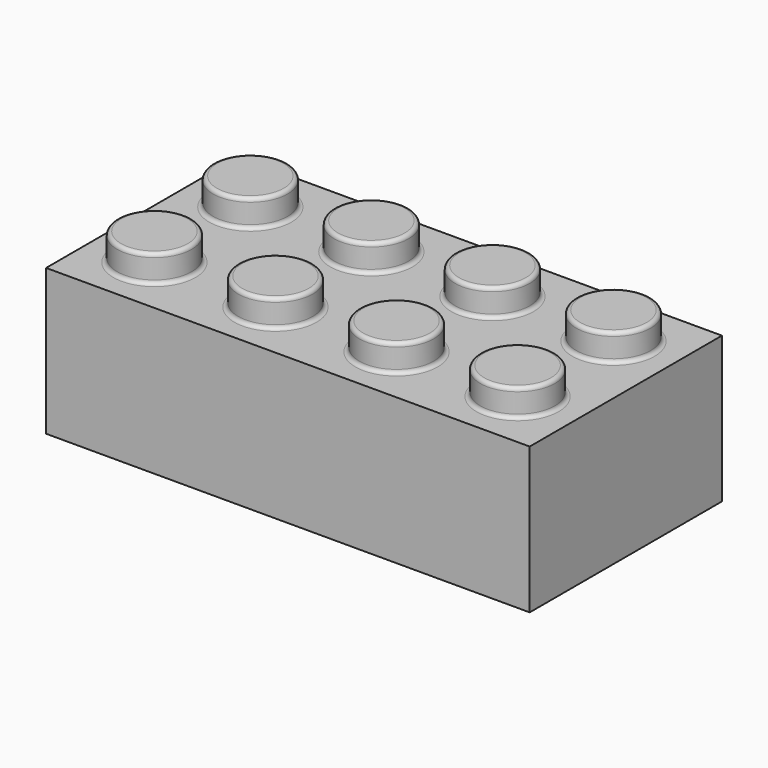
from build123d import *

# Parameters (mm, degrees)
F0_W      = 318
F0_H      = 158
F1_DEPTH  = 96
F2_T      = -10
F3_R      = 32.05
F3_R_2    = 24.5
F4_DEPTH  = 94.742
F5_R      = 24.5
F6_DEPTH  = 18
F7_W      = 6
F7_H      = 2.9972
F7_H_2    = 3
F7_W_2    = 3
F7_H_3    = 6
F8_DEPTH  = 96
F10_START = 6.604
F10_DEPTH = 79.396
F11_R     = 2.54
F12_R     = 13.300546755
F13_DEPTH = 89.662


with BuildPart() as f1:
    # F0 (on Top) → F1 (new body)
    with BuildSketch(Plane.XY):
        Rectangle(F0_W, F0_H)
    extrude(amount=F1_DEPTH)

    # F2
    f2_openings = [f1.faces().sort_by_distance(p)[0] for p in [
        (0, 0, 0),
    ]]
    offset(amount=F2_T, openings=f2_openings)

    # F3 (on Top) → F4 (join)
    with BuildSketch(Plane.XY):
        with Locations((-80, 0)):
            Circle(F3_R)
        with Locations((-80, 0)):
            Circle(F3_R_2, mode=Mode.SUBTRACT)
        Circle(F3_R)
        Circle(F3_R_2, mode=Mode.SUBTRACT)
        with Locations((80, 0)):
            Circle(F3_R)
        with Locations((80, 0)):
            Circle(F3_R_2, mode=Mode.SUBTRACT)
    extrude(amount=F4_DEPTH)

    # F5 (on face) → F6 (join)
    with BuildSketch(Plane.XY.offset(96)):
        with Locations((-119.4124, 39.4124)):
            Circle(F5_R)
        with Locations((-39.81642, 39.4124)):
            Circle(F5_R)
        with Locations((39.77956, 39.4124)):
            Circle(F5_R)
        with Locations((119.37554, 39.4124)):
            Circle(F5_R)
        with Locations((119.37554, -39.4124)):
            Circle(F5_R)
        with Locations((39.77956, -39.4124)):
            Circle(F5_R)
        with Locations((-39.81642, -39.4124)):
            Circle(F5_R)
        with Locations((-119.4124, -39.4124)):
            Circle(F5_R)
    extrude(amount=F6_DEPTH)

    # F7 (on face) → F8 (join)
    with BuildSketch(Plane(origin=(0, 0, 0), x_dir=(1, 0, 0), z_dir=(0, 0, -1))):
        with Locations((40.2764182, 67.5014)):
            Rectangle(F7_W, F7_H)
        with Locations((119.4151982, 67.5)):
            Rectangle(F7_W, F7_H_2)
        with Locations((147.5, 39.4151982)):
            Rectangle(F7_W_2, F7_H_3)
        with Locations((-40.2764182, 67.5014)):
            Rectangle(F7_W, F7_H)
        with Locations((-119.4151982, 67.5014)):
            Rectangle(F7_W, F7_H)
        with Locations((-147.5, 39.4151982)):
            Rectangle(F7_W_2, F7_H_3)
        with Locations((-147.5, -39.4151982)):
            Rectangle(F7_W_2, F7_H_3)
        with Locations((-119.4151982, -67.5)):
            Rectangle(F7_W, F7_H_2)
        with Locations((-40.2764182, -67.5014)):
            Rectangle(F7_W, F7_H)
        with Locations((40.2764182, -67.5014)):
            Rectangle(F7_W, F7_H)
        with Locations((119.4151982, -67.5)):
            Rectangle(F7_W, F7_H_2)
        with Locations((147.5, -39.4151982)):
            Rectangle(F7_W_2, F7_H_3)
    extrude(amount=-F8_DEPTH)

    # F9 (on Top) → F10 (join)
    with BuildSketch(Plane.XY.offset(F10_START)):
        with BuildLine():
            Line((-4.4452001303, -31.7402378032), (-4.4452001303, -79))
            Line((-4.4452001303, -79), (3.5547998697, -79))
            Line((3.5547998697, -79), (3.5547998697, -31.8522510647))
            ThreePointArc((3.5547998697, -31.8522510647), (-0.4487091472, -32.046858818), (-4.4452001303, -31.7402378032))
        make_face()
        with BuildLine():
            Line((3.5547998697, 78.994), (-4.4452001303, 78.994))
            Line((-4.4452001303, 78.994), (-4.4452001303, 31.7402378032))
            ThreePointArc((-4.4452001303, 31.7402378032), (-0.4487091472, 32.046858818), (3.5547998697, 31.8522510647))
            Line((3.5547998697, 31.8522510647), (3.5547998697, 78.994))
        make_face()
    extrude(amount=F10_DEPTH)

    # F11
    f11_edges = [f1.edges().sort_by_distance(p)[0] for p in [
        (-143.9124, -39.4124, 114),
        (-143.9124, 39.4124, 114),
        (-64.31642, 39.4124, 114),
        (-64.31642, -39.4124, 114),
        (15.27956, -39.4124, 114),
        (15.27956, 39.4124, 114),
        (94.87554, 39.4124, 114),
        (94.87554, -39.4124, 114),
        (94.87554, -39.4124, 96),
        (94.87554, 39.4124, 96),
        (15.27956, -39.4124, 96),
        (-64.31642, -39.4124, 96),
        (-143.9124, -39.4124, 96),
        (-143.9124, 39.4124, 96),
        (-64.31642, 39.4124, 96),
        (15.27956, 39.4124, 96),
    ]]
    fillet(f11_edges, radius=F11_R)

    # F12 (on face) → F13 (cut)
    with BuildSketch(Plane(origin=(0, 0, 0), x_dir=(1, 0, 0), z_dir=(0, 0, -1))):
        with Locations((120.9, -40.9)):
            Circle(F12_R)
        with Locations((40.4094228188, -40.9)):
            Circle(F12_R)
        with Locations((-40.4094228188, -40.9)):
            Circle(F12_R)
        with Locations((-120.9, -40.9)):
            Circle(F12_R)
        with Locations((-120.9, 40.9)):
            Circle(F12_R)
        with Locations((-40.4094228188, 40.9)):
            Circle(F12_R)
        with Locations((40.4094228188, 40.9)):
            Circle(F12_R)
        with Locations((120.9, 40.9)):
            Circle(F12_R)
    extrude(amount=-F13_DEPTH, mode=Mode.SUBTRACT)


solid = f1.part
